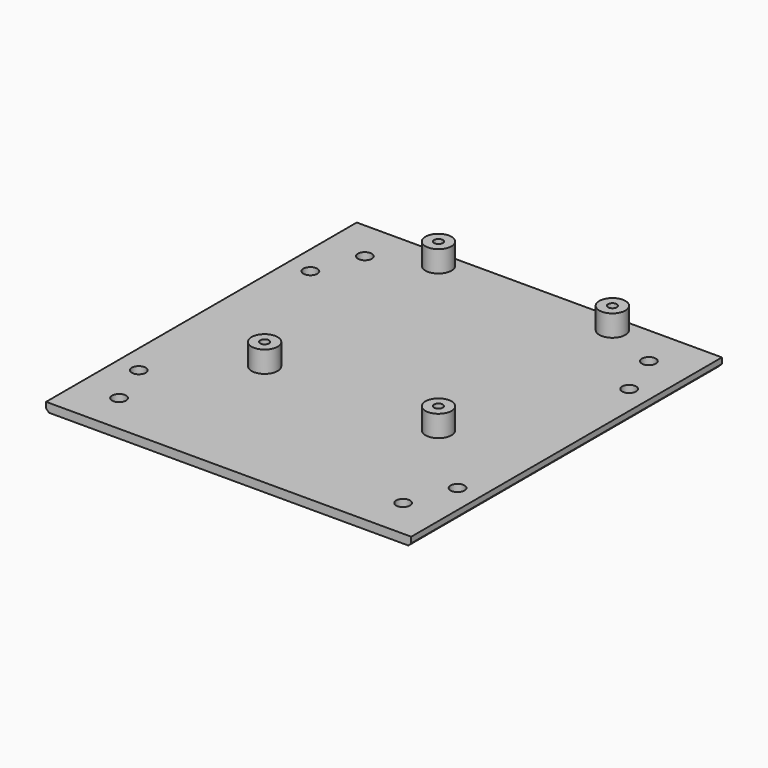
from build123d import *

# Parameters (mm, degrees)
SKETCH001_W     = 126
SKETCH001_H     = 134
SKETCH001_R     = 2.4
PAD_DEPTH       = 3
SKETCH009_R     = 4.5
PAD005_DEPTH    = 7.4
SKETCH010_R     = 1.5
POCKET017_DEPTH = 10.401
CHAMFER015_SIZE = 1


with BuildPart() as part:
    # Sketch001 → Pad (new body)
    with BuildSketch(Plane.XY):
        Rectangle(SKETCH001_W, SKETCH001_H)
        with Locations((-49, 53)):
            Circle(SKETCH001_R, mode=Mode.SUBTRACT)
        with Locations((49, 53)):
            Circle(SKETCH001_R, mode=Mode.SUBTRACT)
        with Locations((-49, -53)):
            Circle(SKETCH001_R, mode=Mode.SUBTRACT)
        with Locations((49, -53)):
            Circle(SKETCH001_R, mode=Mode.SUBTRACT)
        with Locations((55, 37)):
            Circle(SKETCH001_R, mode=Mode.SUBTRACT)
        with Locations((-55, 37)):
            Circle(SKETCH001_R, mode=Mode.SUBTRACT)
        with Locations((-55, -37)):
            Circle(SKETCH001_R, mode=Mode.SUBTRACT)
        with Locations((55, -37)):
            Circle(SKETCH001_R, mode=Mode.SUBTRACT)
    extrude(amount=PAD_DEPTH)

    # Sketch009 (on Face14 of Pad) → Pad005 (join)
    with BuildSketch(Plane.XY.offset(3)):
        with Locations((-30, 61)):
            Circle(SKETCH009_R)
        with Locations((30, 61)):
            Circle(SKETCH009_R)
        with Locations((-30, -14)):
            Circle(SKETCH009_R)
        with Locations((30, -14)):
            Circle(SKETCH009_R)
    extrude(amount=PAD005_DEPTH)

    # Sketch010 (on Face22 of Pad005) → Pocket017 (cut, through all)
    with BuildSketch(Plane.XY.offset(10.4)):
        with Locations((-30, 61)):
            Circle(SKETCH010_R)
        with Locations((30, 61)):
            Circle(SKETCH010_R)
        with Locations((30, -14)):
            Circle(SKETCH010_R)
        with Locations((-30, -14)):
            Circle(SKETCH010_R)
    extrude(amount=-POCKET017_DEPTH, mode=Mode.SUBTRACT)

    # Chamfer015
    chamfer015_edges = [part.edges().sort_by_distance(p)[0] for p in [
        (-63, 0, 0),
        (63, 0, 0),
    ]]
    chamfer(chamfer015_edges, length=CHAMFER015_SIZE)


solid = part.part
